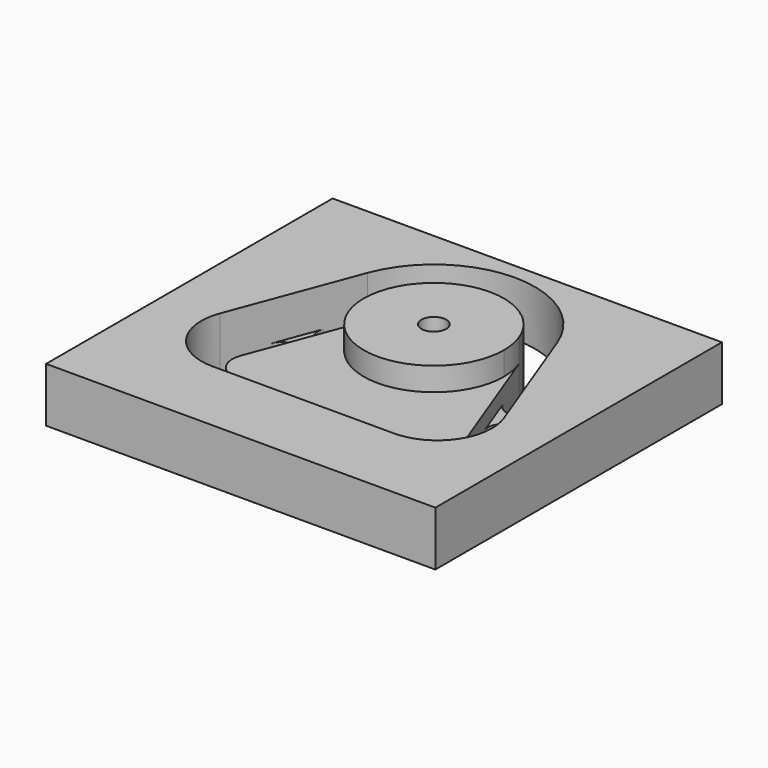
from build123d import *

# Parameters (mm, degrees)
F0_R     = 1.6
F1_DEPTH = 3
F2_DEPTH = 3
F3_W     = 50
F3_H     = 46
F4_DEPTH = 6
F6_DEPTH = 1
F7_DEPTH = 1
F8_R     = 3
F9_DEPTH = 1


with BuildPart() as f1:
    # F0 (on Top) → F1 (new body)
    with BuildSketch(Plane.XY):
        with BuildLine():
            ThreePointArc((-8.4251758935, 3.1648714292), (-1.6083247431, -8.8551279788), (9, 0))
            ThreePointArc((9, 0), (8.8551279788, 1.6083247431), (8.4251758935, 3.1648714292))
            ThreePointArc((8.4251758935, 3.1648714292), (0, 9), (-8.4251758935, 3.1648714292))
        make_face()
        Circle(F0_R, mode=Mode.SUBTRACT)
        with BuildLine():
            ThreePointArc((8.4251758935, 3.1648714292), (8.8551279788, 1.6083247431), (9, 0))
            ThreePointArc((9, 0), (-1.6083247431, -8.8551279788), (-8.4251758935, 3.1648714292))
            Line((-8.4251758935, 3.1648714292), (-14.4767774381, -12.9450428569))
            ThreePointArc((-14.4767774381, -12.9450428569), (-14.1346449317, -15.7080879033), (-11.6683854736, -17))
            Line((-11.6683854736, -17), (0, -17))
            Line((0, -17), (11.6683854736, -17))
            ThreePointArc((11.6683854736, -17), (14.1346449317, -15.7080879033), (14.4767774381, -12.9450428569))
            Line((14.4767774381, -12.9450428569), (8.4251758935, 3.1648714292))
        make_face()
    extrude(amount=-F1_DEPTH)

    # F0 (on Top) → F2 (join)
    with BuildSketch(Plane.XY):
        with BuildLine():
            ThreePointArc((-8.4251758935, 3.1648714292), (-1.6083247431, -8.8551279788), (9, 0))
            ThreePointArc((9, 0), (8.8551279788, 1.6083247431), (8.4251758935, 3.1648714292))
            ThreePointArc((8.4251758935, 3.1648714292), (0, 9), (-8.4251758935, 3.1648714292))
        make_face()
        Circle(F0_R, mode=Mode.SUBTRACT)
    extrude(amount=F2_DEPTH)



with BuildPart() as f4:
    # F3 (on face) → F4 (new body, through all)
    with BuildSketch(Plane(origin=(0, 0, -3), x_dir=(1, 0, 0), z_dir=(0, 0, -1))):
        with Locations((0, 8)):
            Rectangle(F3_W, F3_H)
        with BuildLine():
            Line((-12.1696985129, -4.5714809533), (-18.2213000575, 11.5384333329))
            ThreePointArc((-18.2213000575, 11.5384333329), (-17.4229908758, 17.985538441), (-11.6683854736, 21))
            Line((-11.6683854736, 21), (11.6683854736, 21))
            ThreePointArc((11.6683854736, 21), (17.4229908758, 17.985538441), (18.2213000575, 11.5384333329))
            Line((18.2213000575, 11.5384333329), (12.1696985129, -4.5714809533))
            ThreePointArc((12.1696985129, -4.5714809533), (0, -13), (-12.1696985129, -4.5714809533))
        make_face(mode=Mode.SUBTRACT)
        with Locations((0, 8)):
            Rectangle(F3_W, F3_H)
        with BuildLine():
            Line((-12.1696985129, -4.5714809533), (-18.2213000575, 11.5384333329))
            ThreePointArc((-18.2213000575, 11.5384333329), (-17.4229908758, 17.985538441), (-11.6683854736, 21))
            Line((-11.6683854736, 21), (11.6683854736, 21))
            ThreePointArc((11.6683854736, 21), (17.4229908758, 17.985538441), (18.2213000575, 11.5384333329))
            Line((18.2213000575, 11.5384333329), (12.1696985129, -4.5714809533))
            ThreePointArc((12.1696985129, -4.5714809533), (0, -13), (-12.1696985129, -4.5714809533))
        make_face(mode=Mode.SUBTRACT)
        with Locations((0, 8)):
            Rectangle(F3_W, F3_H)
        with BuildLine():
            Line((-12.1696985129, -4.5714809533), (-18.2213000575, 11.5384333329))
            ThreePointArc((-18.2213000575, 11.5384333329), (-17.4229908758, 17.985538441), (-11.6683854736, 21))
            Line((-11.6683854736, 21), (11.6683854736, 21))
            ThreePointArc((11.6683854736, 21), (17.4229908758, 17.985538441), (18.2213000575, 11.5384333329))
            Line((18.2213000575, 11.5384333329), (12.1696985129, -4.5714809533))
            ThreePointArc((12.1696985129, -4.5714809533), (0, -13), (-12.1696985129, -4.5714809533))
        make_face(mode=Mode.SUBTRACT)
        with Locations((0, 8)):
            Rectangle(F3_W, F3_H)
        with BuildLine():
            Line((-12.1696985129, -4.5714809533), (-18.2213000575, 11.5384333329))
            ThreePointArc((-18.2213000575, 11.5384333329), (-17.4229908758, 17.985538441), (-11.6683854736, 21))
            Line((-11.6683854736, 21), (11.6683854736, 21))
            ThreePointArc((11.6683854736, 21), (17.4229908758, 17.985538441), (18.2213000575, 11.5384333329))
            Line((18.2213000575, 11.5384333329), (12.1696985129, -4.5714809533))
            ThreePointArc((12.1696985129, -4.5714809533), (0, -13), (-12.1696985129, -4.5714809533))
        make_face(mode=Mode.SUBTRACT)
        with Locations((0, 8)):
            Rectangle(F3_W, F3_H)
        with BuildLine():
            Line((-12.1696985129, -4.5714809533), (-18.2213000575, 11.5384333329))
            ThreePointArc((-18.2213000575, 11.5384333329), (-17.4229908758, 17.985538441), (-11.6683854736, 21))
            Line((-11.6683854736, 21), (11.6683854736, 21))
            ThreePointArc((11.6683854736, 21), (17.4229908758, 17.985538441), (18.2213000575, 11.5384333329))
            Line((18.2213000575, 11.5384333329), (12.1696985129, -4.5714809533))
            ThreePointArc((12.1696985129, -4.5714809533), (0, -13), (-12.1696985129, -4.5714809533))
        make_face(mode=Mode.SUBTRACT)
    extrude(amount=-F4_DEPTH)


with BuildPart() as f1_1:
    add(f1.part)

    add(f4.part)  # F6 merges F4
    # F5 (on face) → F6 (join)
    with BuildSketch(Plane(origin=(0, 0, -3), x_dir=(1, 0, 0), z_dir=(0, 0, -1))):
        with BuildLine():
            Line((-10.2463335535, 1.683216071), (-12.3562478397, 7.3))
            ThreePointArc((-12.3562478397, 7.3), (-13.5252043873, 4.7244339283), (-16.100770459, 5.8933904759))
            Line((-16.100770459, 5.8933904759), (-13.9908561729, 0.2766065469))
            ThreePointArc((-13.9908561729, 0.2766065469), (-12.8218996253, 2.8521726186), (-10.2463335535, 1.683216071))
        make_face()
        with BuildLine():
            ThreePointArc((-3, 21), (-1, 19), (-3, 17))
            Line((-3, 17), (3, 17))
            ThreePointArc((3, 17), (1, 19), (3, 21))
            Line((3, 21), (-3, 21))
        make_face()
        with BuildLine():
            Line((12.3562478397, 7.3), (10.2463335535, 1.683216071))
            ThreePointArc((10.2463335535, 1.683216071), (12.8218996253, 2.8521726186), (13.9908561729, 0.2766065469))
            Line((13.9908561729, 0.2766065469), (16.100770459, 5.8933904759))
            ThreePointArc((16.100770459, 5.8933904759), (13.5252043873, 4.7244339283), (12.3562478397, 7.3))
        make_face()
    extrude(amount=-F6_DEPTH)

    # F7 (add): a face of the model
    f7_faces = [f1_1.faces().sort_by_distance(p)[0] for p in [
        (0, -8.3665022997, -3),
    ]]
    extrude(f7_faces, amount=F7_DEPTH)

    # F8 (on face) → F9 (cut)
    with BuildSketch(Plane(origin=(0, 0, -4), x_dir=(1, 0, 0), z_dir=(0, 0, -1))):
        with Locations((-20, 26)):
            Circle(F8_R)
        with Locations((20, 26)):
            Circle(F8_R)
        with Locations((20, -10)):
            Circle(F8_R)
        with Locations((-20, -10)):
            Circle(F8_R)
    extrude(amount=-F9_DEPTH, mode=Mode.SUBTRACT)


solid = f1_1.part
